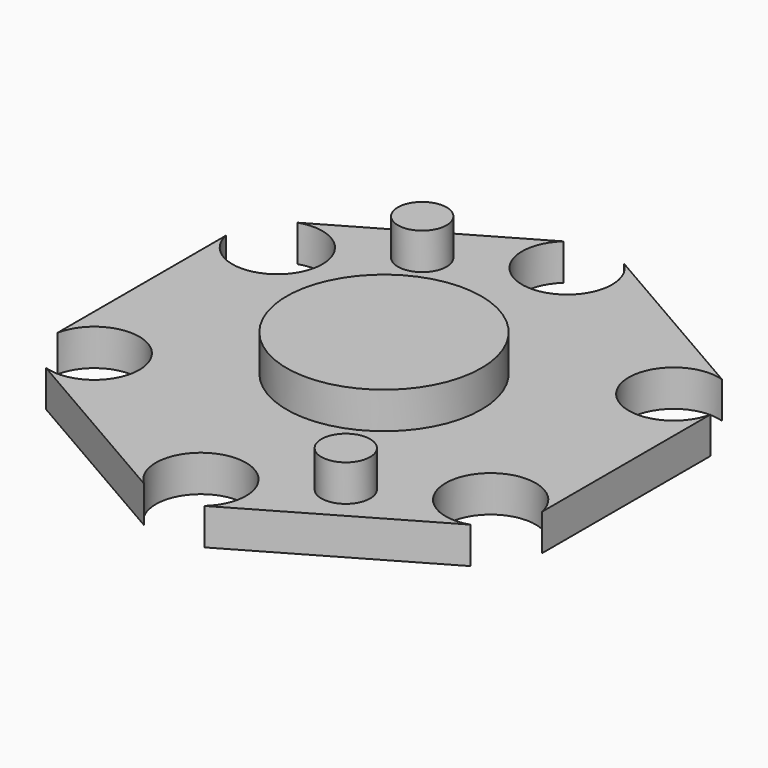
from build123d import *

# Parameters (mm, degrees)
F0_R     = 1
F1_DEPTH = 1.5
F2_R     = 4
F3_DEPTH = 1.5


with BuildPart() as f1:
    # F0 (on Top) → F1 (new body)
    with BuildSketch(Plane.XY):
        with BuildLine():
            Line((9.95, -4.314368), (9.95, 4.314368))
            ThreePointArc((9.95, 4.314368), (6.538492, 3.775), (8.711352, 6.459769))
            Line((8.711352, 6.459769), (1.238648, 10.774137))
            ThreePointArc((1.238648, 10.774137), (0, 7.55), (-1.238648, 10.774137))
            Line((-1.238648, 10.774137), (-8.711352, 6.459769))
            ThreePointArc((-8.711352, 6.459769), (-6.538492, 3.775), (-9.95, 4.314368))
            Line((-9.95, 4.314368), (-9.95, -4.314368))
            ThreePointArc((-9.95, -4.314368), (-6.538492, -3.775), (-8.711352, -6.459769))
            Line((-8.711352, -6.459769), (-1.238648, -10.774137))
            ThreePointArc((-1.238648, -10.774137), (0, -7.55), (1.238648, -10.774137))
            Line((1.238648, -10.774137), (8.711352, -6.459769))
            ThreePointArc((8.711352, -6.459769), (6.538492, -3.775), (9.95, -4.314368))
        make_face()
        with Locations((4.070319, -7.05)):
            Circle(F0_R, mode=Mode.SUBTRACT)
        with Locations((-4.070319, 7.05)):
            Circle(F0_R, mode=Mode.SUBTRACT)
        with Locations((4.070319, -7.05)):
            Circle(F0_R)
        with Locations((-4.070319, 7.05)):
            Circle(F0_R)
    extrude(amount=-F1_DEPTH)

    # F2 (on face) + F0 (on Top) → F3 (join)
    with BuildSketch(Plane.XY):
        Circle(F2_R)
    with BuildSketch(Plane.XY):
        with Locations((-4.070319, 7.05)):
            Circle(F0_R)
        with Locations((4.070319, -7.05)):
            Circle(F0_R)
    extrude(amount=F3_DEPTH)


solid = f1.part
